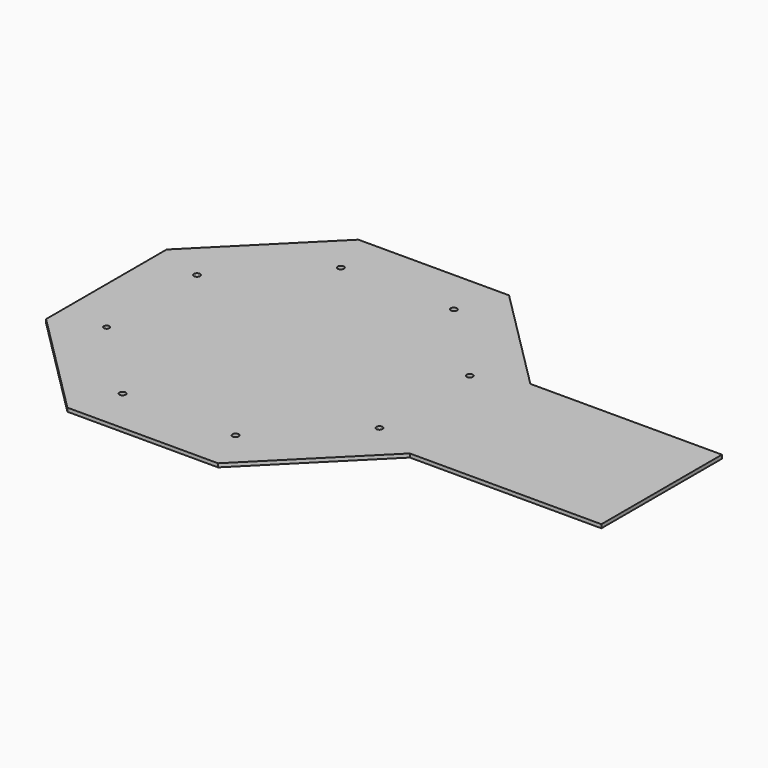
from build123d import *

# Parameters (mm, degrees)
F0_R     = 1.7
F0_R_2   = 1.5
F1_DEPTH = 2


with BuildPart() as f1:
    # F0 (on Top) → F1 (new body)
    with BuildSketch(Plane.XY):
        Polygon((41.42136, 100), (-41.42136, 100), (-100, 41.421356), (-100, -41.421356), (-41.421356, -100), (41.42136, -100), (100, -41.421356), (205.339179, -41.421356), (205.339179, 41.421356), (100, 41.421356), align=None)
        with Locations((-31.066017, -75)):
            Circle(F0_R, mode=Mode.SUBTRACT)
        with Locations((31.066017, -75)):
            Circle(F0_R, mode=Mode.SUBTRACT)
        with Locations((-75, -31.066017)):
            Circle(F0_R_2, mode=Mode.SUBTRACT)
        with Locations((75, -31.066017)):
            Circle(F0_R, mode=Mode.SUBTRACT)
        with Locations((-75, 31.066017)):
            Circle(F0_R, mode=Mode.SUBTRACT)
        with Locations((-31.066017, 75)):
            Circle(F0_R, mode=Mode.SUBTRACT)
        with Locations((31.066017, 75)):
            Circle(F0_R, mode=Mode.SUBTRACT)
        with Locations((75, 31.066017)):
            Circle(F0_R, mode=Mode.SUBTRACT)
    extrude(amount=F1_DEPTH)


solid = f1.part
